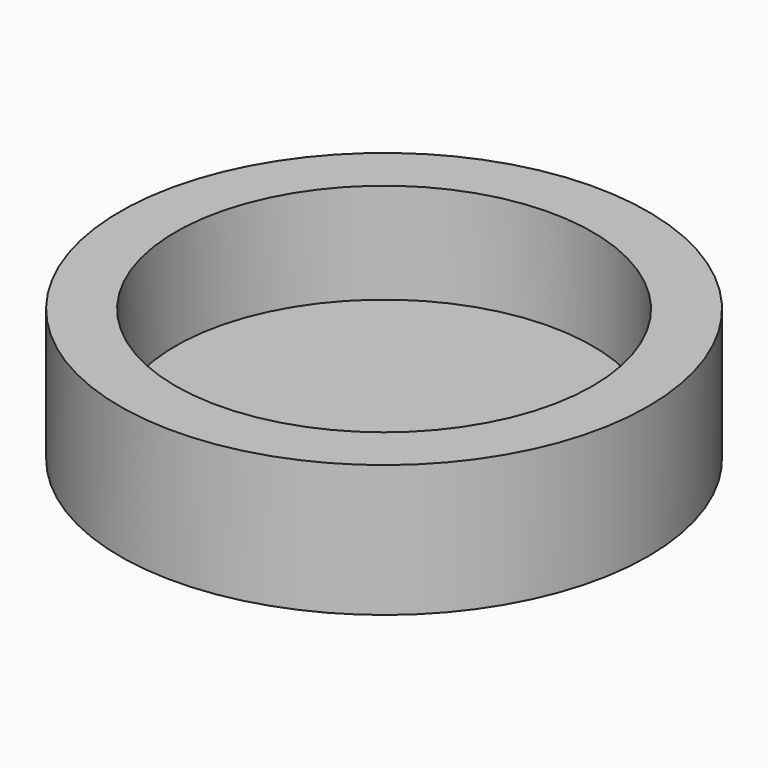
from build123d import *

# Parameters (mm, degrees)
F0_R     = 12.7
F1_DEPTH = 6.35
F2_R     = 10.033
F3_DEPTH = 4.826


with BuildPart() as f1:
    # F0 (on Top) → F1 (new body)
    with BuildSketch(Plane.XY):
        Circle(F0_R)
    extrude(amount=-F1_DEPTH)

    # F2 (on face) → F3 (cut)
    with BuildSketch(Plane.XY):
        Circle(F2_R)
    extrude(amount=-F3_DEPTH, mode=Mode.SUBTRACT)


solid = f1.part
